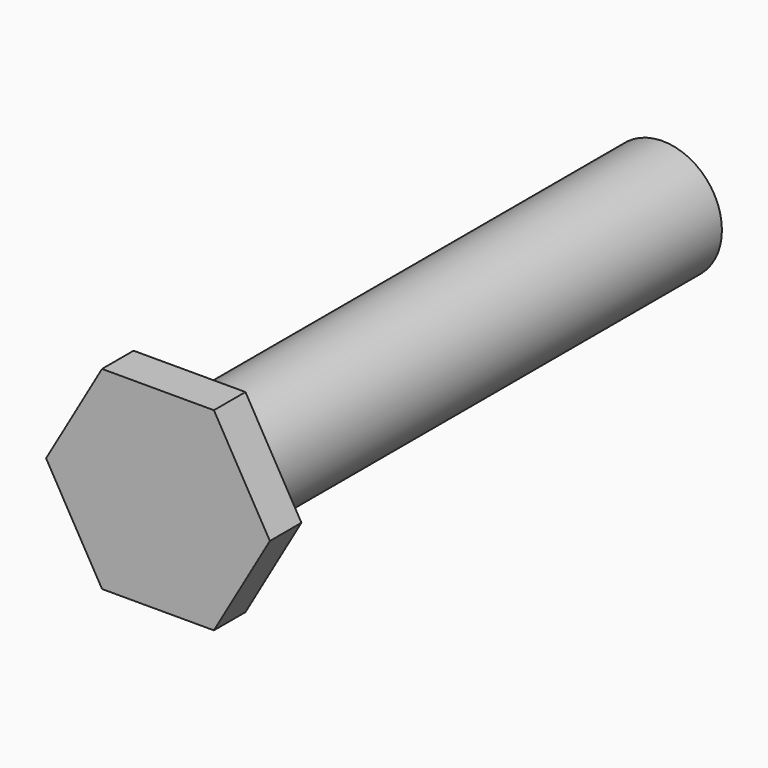
from build123d import *

# Parameters (mm, degrees)
F0_R     = 15
F1_DEPTH = 75
F3_DEPTH = 10


with BuildPart() as f1:
    # F0 (on Front) → F1 (new body, symmetric)
    with BuildSketch(Plane.XZ):
        Circle(F0_R)
    extrude(amount=F1_DEPTH, both=True)

    # F2 (on face) → F3 (join)
    with BuildSketch(Plane.XZ.offset(75)):
        Polygon((28.369565, 0), (14.184782, 24.568764), (-14.184782, 24.568764), (-28.369565, 0), (-14.184782, -24.568764), (14.184782, -24.568764), align=None)
    extrude(amount=F3_DEPTH)


solid = f1.part
